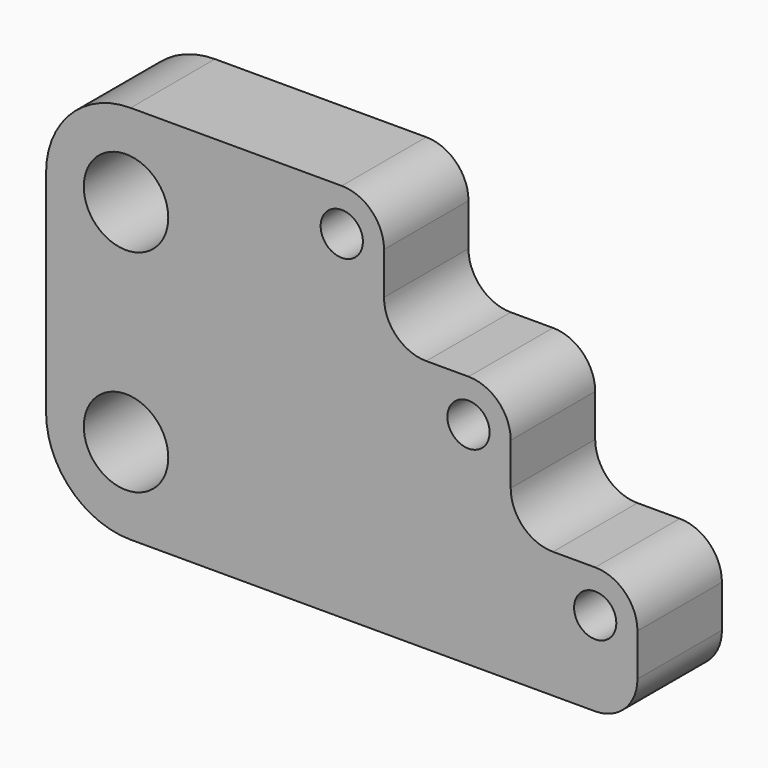
from build123d import *

# Parameters (mm, degrees)
F0_R     = 10
F1_DEPTH = 25


with BuildPart() as f1:
    # F0 (on Front) → F1 (new body)
    with BuildSketch(Plane.XZ):
        with BuildLine():
            ThreePointArc((-130, -34.934431), (-124.142136, -49.076566), (-110, -54.934431))
            Line((-110, -54.934431), (0, -54.934431))
            ThreePointArc((0, -54.934431), (7.071068, -52.005499), (10, -44.934431))
            Line((10, -44.934431), (10, -34.934431))
            ThreePointArc((10, -34.934431), (7.071068, -27.863363), (0, -24.934431))
            Line((0, -24.934431), (-10, -24.934431))
            ThreePointArc((-10, -24.934431), (-17.071068, -22.005499), (-20, -14.934431))
            Line((-20, -14.934431), (-20, -4.934431))
            ThreePointArc((-20, -4.934431), (-22.928932, 2.136637), (-30, 5.065569))
            Line((-30, 5.065569), (-40, 5.065569))
            ThreePointArc((-40, 5.065569), (-47.071068, 7.994501), (-50, 15.065569))
            Line((-50, 15.065569), (-50, 25.065569))
            ThreePointArc((-50, 25.065569), (-52.928932, 32.136637), (-60, 35.065569))
            Line((-60, 35.065569), (-110, 35.065569))
            ThreePointArc((-110, 35.065569), (-124.142136, 29.207705), (-130, 15.065569))
            Line((-130, 15.065569), (-130, -34.934431))
        make_face()
        with Locations((-111.075174, -34.934431)):
            Circle(F0_R, mode=Mode.SUBTRACT)
        with BuildLine():
            ThreePointArc((5, -34.934431), (-3.535534, -38.469965), (0, -29.934431))
            ThreePointArc((0, -29.934431), (3.535534, -31.398897), (5, -34.934431))
        make_face(mode=Mode.SUBTRACT)
        with Locations((-111.075174, 15.065569)):
            Circle(F0_R, mode=Mode.SUBTRACT)
        with BuildLine():
            ThreePointArc((-25, -4.934431), (-33.535534, -8.469965), (-30, 0.065569))
            ThreePointArc((-30, 0.065569), (-26.464466, -1.398897), (-25, -4.934431))
        make_face(mode=Mode.SUBTRACT)
        with BuildLine():
            ThreePointArc((-55, 25.065569), (-63.535534, 21.530035), (-60, 30.065569))
            ThreePointArc((-60, 30.065569), (-56.464466, 28.601103), (-55, 25.065569))
        make_face(mode=Mode.SUBTRACT)
    extrude(amount=F1_DEPTH)


solid = f1.part
